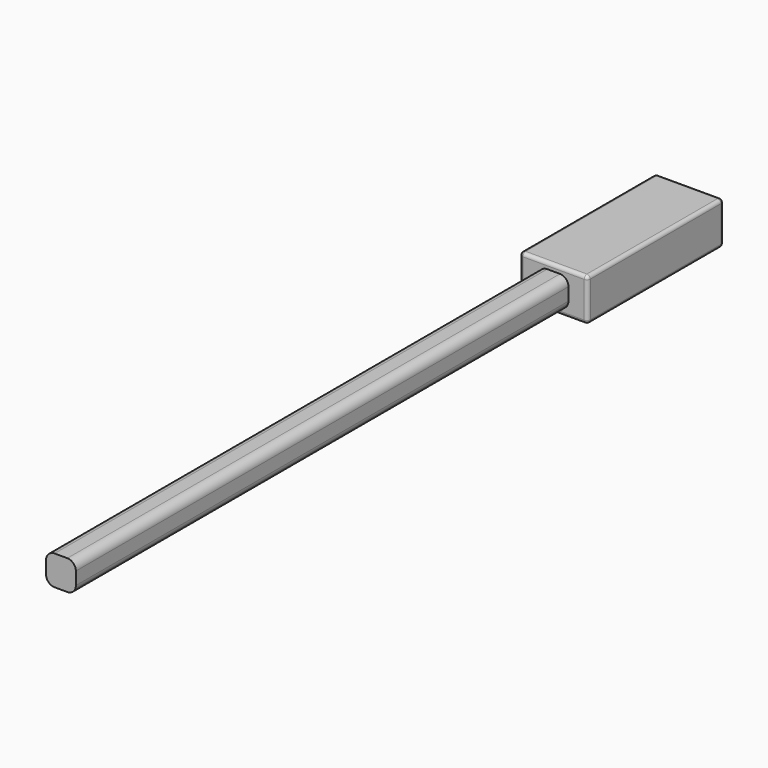
from build123d import *

# Parameters (mm, degrees)
F0_W     = 8
F0_H     = 20
F1_DEPTH = 2.5
F2_W     = 3.5
F2_H     = 75
F3_DEPTH = 1.75
F4_R     = 0.4
F5_R     = 1


with BuildPart() as f1:
    # F0 (on Top) → F1 (new body, symmetric)
    with BuildSketch(Plane.XY):
        Rectangle(F0_W, F0_H)
    extrude(amount=F1_DEPTH, both=True)

    # F2 (on Top) → F3 (join, symmetric)
    with BuildSketch(Plane.XY):
        with Locations((0, -44.9)):
            Rectangle(F2_W, F2_H)
    extrude(amount=F3_DEPTH, both=True)

    # F4
    f4_edges = [f1.edges().sort_by_distance(p)[0] for p in [
        (4, 10, 0),
        (0, 10, -2.5),
        (0, 10, 2.5),
        (-4, 0, 2.5),
        (4, 0, -2.5),
        (-4, 0, -2.5),
        (4, 0, 2.5),
        (-4, 10, 0),
        (4, -10, 0),
        (0, -10, 2.5),
        (-4, -10, 0),
        (0, -10, -2.5),
    ]]
    fillet(f4_edges, radius=F4_R)

    # F5
    f5_edges = [f1.edges().sort_by_distance(p)[0] for p in [
        (1.75, -46.2, -1.75),
        (-1.75, -46.2, -1.75),
        (1.75, -46.2, 1.75),
        (-1.75, -46.2, 1.75),
    ]]
    fillet(f5_edges, radius=F5_R)


solid = f1.part
